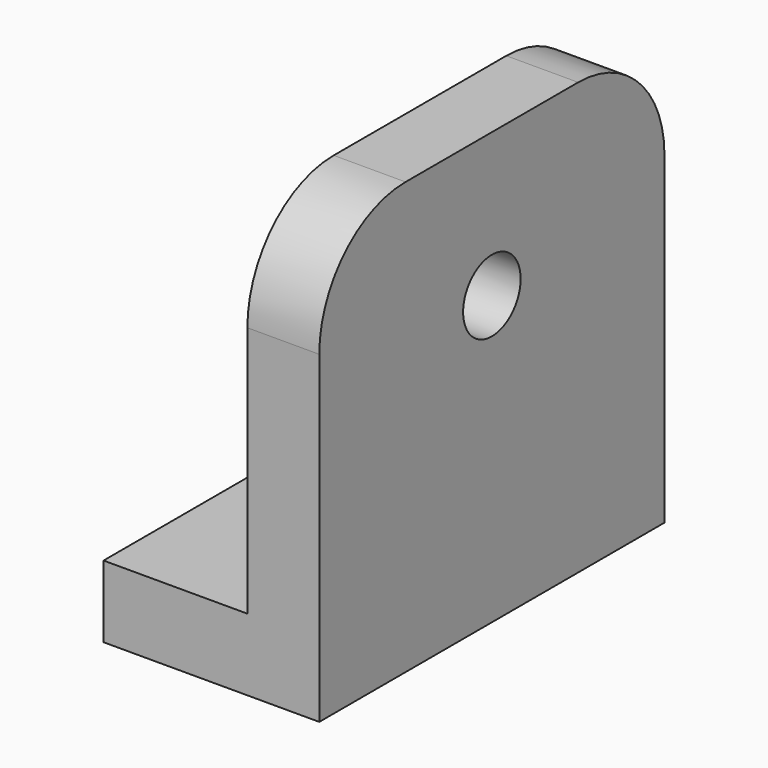
from build123d import *

# Parameters (mm, degrees)
F1_DEPTH = 76.2
F2_R     = 12.7
F3_DEPTH = 76.201
F5_DEPTH = 25.401
F6_R     = 38.1
F7_R     = 19.05
F8_DEPTH = 6.35


with BuildPart() as f1:
    # F0 (on Front) → F1 (new body, symmetric)
    with BuildSketch(Plane.XZ):
        Polygon((-76.2, 0), (0, 0), (0, 152.4), (-25.4, 152.4), (-25.4, 25.4), (-76.2, 25.4), align=None)
    extrude(amount=F1_DEPTH, both=True)

    # F2 (on face) → F3 (cut, through all)
    with BuildSketch(Plane.YZ):
        with Locations((0, 101.6)):
            Circle(F2_R)
    extrude(amount=-F3_DEPTH, mode=Mode.SUBTRACT)

    # F4 (on face) → F5 (cut, through all)
    with BuildSketch(Plane.XY.offset(25.4)):
        with BuildLine():
            ThreePointArc((-63.5, -6.35), (-59.009872, -4.490128), (-57.15, 0))
            ThreePointArc((-57.15, 0), (-59.009872, 4.490128), (-63.5, 6.35))
            ThreePointArc((-63.5, 6.35), (-69.85, 0), (-63.5, -6.35))
        make_face()
        with BuildLine():
            ThreePointArc((-63.5, -6.35), (-69.85, 0), (-63.5, 6.35))
            Line((-63.5, 6.35), (-76.2, 6.35))
            Line((-76.2, 6.35), (-76.2, -6.35))
            Line((-76.2, -6.35), (-63.5, -6.35))
        make_face()
    extrude(amount=-F5_DEPTH, mode=Mode.SUBTRACT)

    # F6
    f6_edges = [f1.edges().sort_by_distance(p)[0] for p in [
        (-12.7, -76.2, 152.4),
        (-12.7, 76.2, 152.4),
    ]]
    fillet(f6_edges, radius=F6_R)

    # F7 (on face) → F8 (cut)
    with BuildSketch(Plane(origin=(-25.4, 0, 0), x_dir=(0, -1, 0), z_dir=(-1, 0, 0))):
        with Locations((0, 101.6)):
            Circle(F7_R)
    extrude(amount=-F8_DEPTH, mode=Mode.SUBTRACT)


solid = f1.part
